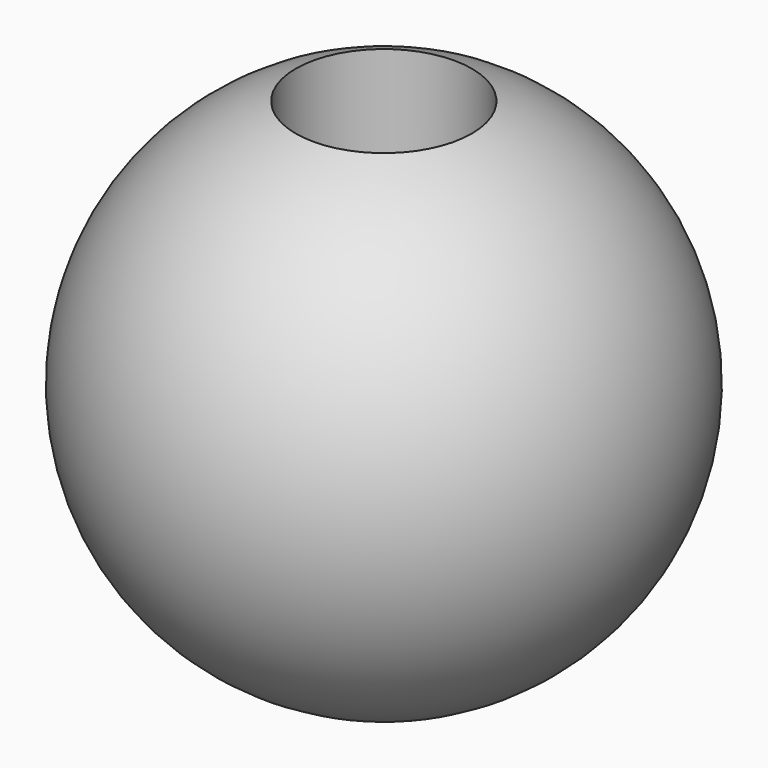
from build123d import *

# Parameters (mm, degrees)
F4_R     = 3.175
F5_DEPTH = 51.308


with BuildPart() as f2:
    # F0 (on Front) → F2 (revolve)
    with BuildSketch(Plane.XZ):
        with BuildLine():
            Line((0, -9.525), (0, 9.525))
            ThreePointArc((0, 9.525), (-9.525, 0), (0, -9.525))
        make_face()
    revolve(axis=Axis((0, 0, 0), (0, 0, 1)))

    # F4 (on offset) → F5 (cut)
    with BuildSketch(Plane.XY.offset(1.524)):
        Circle(F4_R)
    extrude(amount=F5_DEPTH, mode=Mode.SUBTRACT)


solid = f2.part
